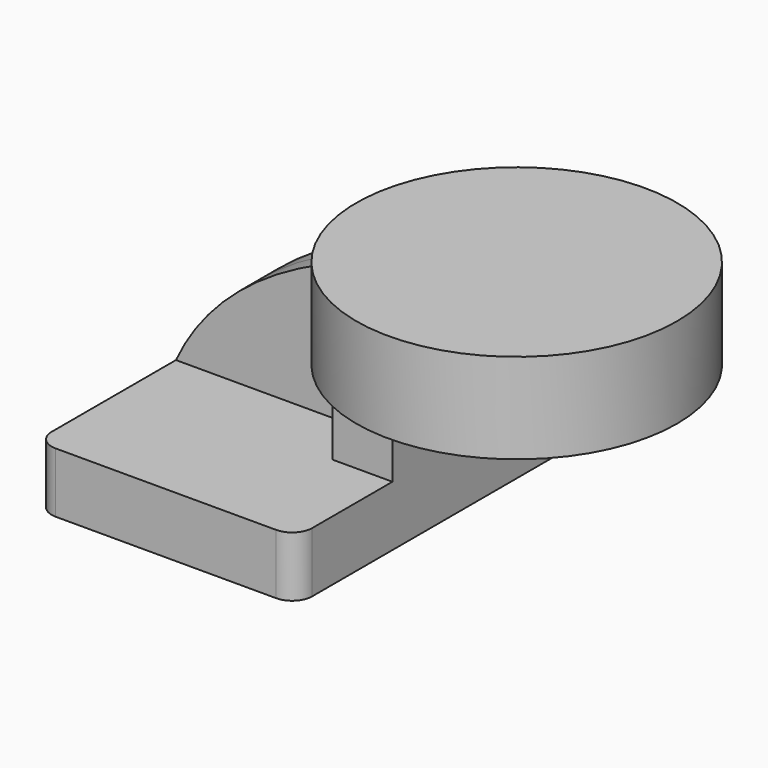
from build123d import *

# Parameters (mm, degrees)
F1_DEPTH = 63.5
F0_W     = 25.4
F0_H     = 19.05
F2_DEPTH = 25.4
F3_DEPTH = 7.9375
F5_R     = 6.35


with BuildPart() as f1:
    # F0 (on Front) → F1 (new body, symmetric)
    with BuildSketch(Plane.XZ):
        Polygon((41.275, -9.525), (41.275, 9.525), (22.225, 9.525), (-41.275, 9.525), (-41.275, -9.525), align=None)
    extrude(amount=F1_DEPTH, both=True)

    # F0 (on Front) → F2 (join, symmetric)
    with BuildSketch(Plane.XZ):
        with BuildLine():
            Line((22.225, 9.525), (41.275, 9.525))
            Line((41.275, 9.525), (41.275, 27.0002))
            ThreePointArc((41.275, 27.0002), (45.92468, 38.22552), (57.15, 42.8752))
            Line((57.15, 42.8752), (60.325, 42.8752))
            Line((60.325, 42.8752), (60.325, 61.9252))
            Line((60.325, 61.9252), (57.15, 61.9252))
            ThreePointArc((57.15, 61.9252), (32.454296, 51.695904), (22.225, 27.0002))
            Line((22.225, 27.0002), (22.225, 9.525))
        make_face()
        with Locations((73.025, 52.4002)):
            Rectangle(F0_W, F0_H)
    extrude(amount=F2_DEPTH, both=True)

    # F0 (on Front) → F3 (join, symmetric)
    with BuildSketch(Plane.XZ):
        with BuildLine():
            Line((-41.275, 9.525), (22.225, 9.525))
            Line((22.225, 9.525), (22.225, 27.0002))
            ThreePointArc((22.225, 27.0002), (32.454296, 51.695904), (57.15, 61.9252))
            add(Edge.make_bspline(
                [(-41.275, 9.525), (-25.040152, 44.883206), (20.634502, 62.09904), (57.15, 61.9252)],
                knots=[0, 0, 0, 0, 111.504536, 111.504536, 111.504536, 111.504536], degree=3))
        make_face()
    extrude(amount=F3_DEPTH, both=True)

    # F0 (on Front) → F4 (revolve)
    with BuildSketch(Plane.XZ):
        Polygon((85.725, 42.8752), (60.325, 42.8752), (60.325, 38.1), (111.125, 38.1), (111.125, 66.675), (60.325, 66.675), (60.325, 61.9252), (85.725, 61.9252), align=None)
    revolve(axis=Axis((60.325, 0, 52.3875), (0, 0, -1)))

    # F5
    f5_edges = [f1.edges().sort_by_distance(p)[0] for p in [
        (41.275, -63.5, 0),
        (-41.275, -63.5, 0),
        (-41.275, 63.5, 0),
        (41.275, 63.5, 0),
    ]]
    fillet(f5_edges, radius=F5_R)


solid = f1.part
